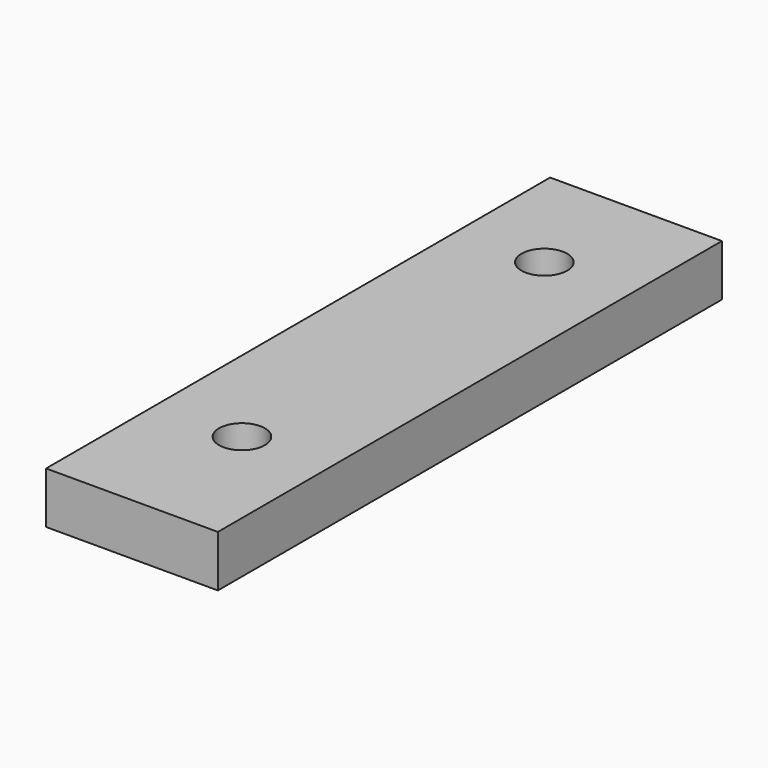
from build123d import *

# Parameters (mm, degrees)
CYLINDER012_R     = 4
CYLINDER012_DEPTH = 4
CYLINDER013_R     = 2
CYLINDER013_DEPTH = 11.5
CYLINDER010_R     = 4
CYLINDER010_DEPTH = 4
CYLINDER011_R     = 2
CYLINDER011_DEPTH = 11.5
BOX002_W          = 15
BOX002_H          = 55
BOX002_DEPTH      = 4.5


with BuildPart() as cylinder015:
    # Cylinder012 → Cylinder012 (new body)
    with BuildSketch(Plane.XY.offset(7.5)):
        Circle(CYLINDER012_R)
    extrude(amount=CYLINDER012_DEPTH)


with BuildPart() as bolt_hole4_distance:
    # Cylinder013 → Cylinder013 (new body)
    with BuildSketch(Plane.XY):
        Circle(CYLINDER013_R)
    extrude(amount=CYLINDER013_DEPTH)

    # Fusion006: union Cylinder015
    add(cylinder015.part)


with BuildPart() as bolt_hole4_distance_1:
    # Fusion006 placement: moved
    add(bolt_hole4_distance.part.moved(Location((28, 45, -9))))


with BuildPart() as cylinder014:
    # Cylinder010 → Cylinder010 (new body)
    with BuildSketch(Plane.XY.offset(7.5)):
        Circle(CYLINDER010_R)
    extrude(amount=CYLINDER010_DEPTH)


with BuildPart() as bolt_hole3_distance:
    # Cylinder011 → Cylinder011 (new body)
    with BuildSketch(Plane.XY):
        Circle(CYLINDER011_R)
    extrude(amount=CYLINDER011_DEPTH)

    # Fusion005: union Cylinder014
    add(cylinder014.part)


with BuildPart() as bolt_hole3_distance_1:
    # Fusion005 placement: moved
    add(bolt_hole3_distance.part.moved(Location((28, 12, -9))))


with BuildPart() as z_distance:
    # Box002 → Box002 (new body)
    with BuildSketch(Plane(origin=(20.5, 0, -9), x_dir=(1, 0, 0), z_dir=(0, 0, 1))):
        with Locations((7.5, 27.5)):
            Rectangle(BOX002_W, BOX002_H)
    extrude(amount=BOX002_DEPTH)

    # Cut012: cut bolt-hole3-distance
    add(bolt_hole3_distance_1.part, mode=Mode.SUBTRACT)

    # Cut013: cut bolt-hole4-distance
    add(bolt_hole4_distance_1.part, mode=Mode.SUBTRACT)


with BuildPart() as z_distance_1:
    # Cut013 placement: moved
    add(z_distance.part.moved(Location((0, 0, -0.5))))


solid = z_distance_1.part
